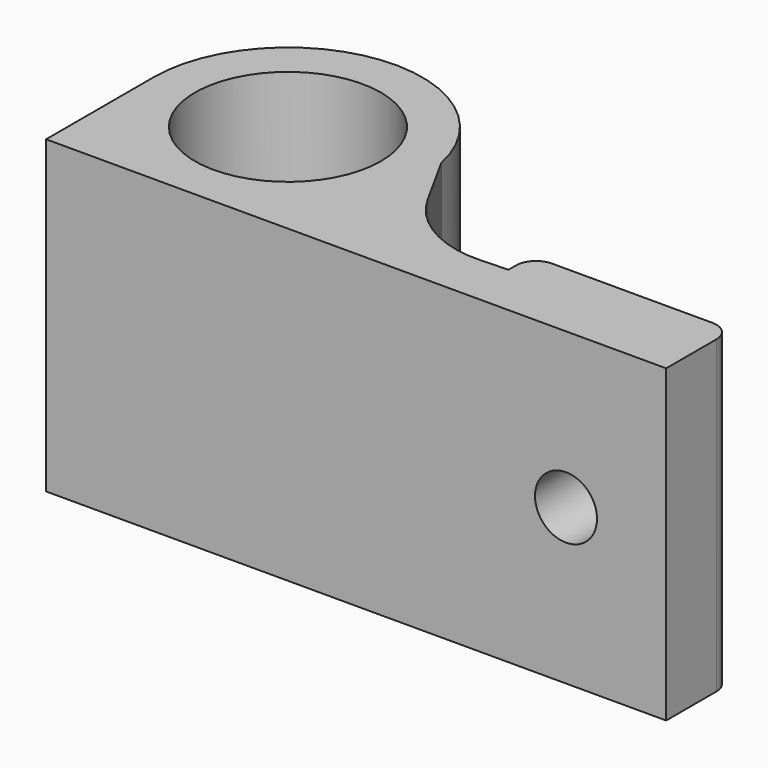
from build123d import *

# Parameters (mm, degrees)
F0_R     = 4.5
F1_DEPTH = 15
F3_R     = 5.11148
F4_R     = 0.965685
F2_R     = 1.5
F5_DEPTH = 4


with BuildPart() as f1:
    # F0 (on Top) → F1 (new body)
    with BuildSketch(Plane.XY):
        with BuildLine():
            ThreePointArc((13, 6.5), (11.096194, 1.903806), (6.5, 0))
            Line((6.5, 0), (30, 0))
            Line((30, 0), (30, 4))
            Line((30, 4), (20.308235, 4))
            Line((20.308235, 4), (20.308235, 2.57894))
            Line((20.308235, 2.57894), (15.861685, 2.391218))
            Line((15.861685, 2.391218), (12.864623, 7.819687))
            ThreePointArc((12.864623, 7.819687), (12.966067, 7.163306), (13, 6.5))
        make_face()
        with BuildLine():
            ThreePointArc((0, 6.5), (1.903806, 1.903806), (6.5, 0))
            ThreePointArc((6.5, 0), (11.096194, 1.903806), (13, 6.5))
            ThreePointArc((13, 6.5), (12.966067, 7.163306), (12.864623, 7.819687))
            ThreePointArc((12.864623, 7.819687), (5.836694, 12.966067), (0, 6.5))
        make_face()
        with Locations((6.5, 6.5)):
            Circle(F0_R, mode=Mode.SUBTRACT)
        with BuildLine():
            Line((0, 6.5), (0, 0))
            Line((0, 0), (6.5, 0))
            ThreePointArc((6.5, 0), (1.903806, 1.903806), (0, 6.5))
        make_face()
    extrude(amount=-F1_DEPTH)

    # F3
    f3_edges = [f1.edges().sort_by_distance(p)[0] for p in [
        (15.861685, 2.391218, -7.5),
    ]]
    fillet(f3_edges, radius=F3_R)

    # F4
    f4_edges = [f1.edges().sort_by_distance(p)[0] for p in [
        (30, 4, -7.5),
        (20.308235, 4, -7.5),
    ]]
    fillet(f4_edges, radius=F4_R)

    # F2 (on face) → F5 (cut, through all)
    with BuildSketch(Plane(origin=(0, 4, 0), x_dir=(-1, 0, 0), z_dir=(0, 1, 0))):
        with Locations((-25.154117, -7.5)):
            Circle(F2_R)
    extrude(amount=-F5_DEPTH, mode=Mode.SUBTRACT)


solid = f1.part
